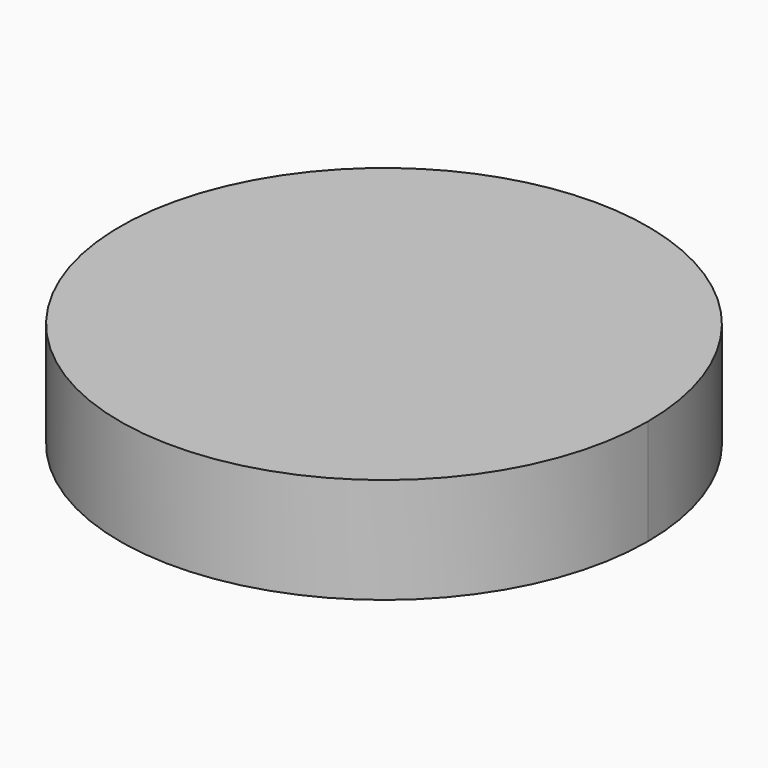
from build123d import *

# Parameters (mm, degrees)
F1_DEPTH = 10


with BuildPart() as f1:
    # F0 (on Top) → F1 (new body)
    with BuildSketch(Plane.XY):
        with BuildLine():
            ThreePointArc((0.202041, 23), (0.151403, 24.00509), (0, 25))
            ThreePointArc((0, 25), (-5, 24.494897), (-9.797959, 23))
            ThreePointArc((-9.797959, 23), (-7.485281, 18.36897), (-3.166929, 15.514719))
            ThreePointArc((-3.166929, 15.514719), (-0.679014, 18.895752), (0.202041, 23))
        make_face()
        with BuildLine():
            ThreePointArc((-18.028245, 17.32), (-9.335253, -23.191659), (25, 0))
            ThreePointArc((25, 0), (20.856042, 13.784974), (9.797959, 23))
            ThreePointArc((9.797959, 23), (5, 16.339746), (-3.166929, 15.514719))
            ThreePointArc((-3.166929, 15.514719), (-11.003846, 13.072974), (-18.028245, 17.32))
        make_face()
        with BuildLine():
            ThreePointArc((-9.797959, 23), (-14.2, 20.575714), (-18.028245, 17.32))
            ThreePointArc((-18.028245, 17.32), (-11.003846, 13.072974), (-3.166929, 15.514719))
            ThreePointArc((-3.166929, 15.514719), (-7.485281, 18.36897), (-9.797959, 23))
        make_face()
        with BuildLine():
            ThreePointArc((-3.166929, 15.514719), (5, 16.339746), (9.797959, 23))
            ThreePointArc((9.797959, 23), (5, 24.494897), (0, 25))
            ThreePointArc((0, 25), (0.151403, 24.00509), (0.202041, 23))
            ThreePointArc((0.202041, 23), (-0.679014, 18.895752), (-3.166929, 15.514719))
        make_face()
    extrude(amount=F1_DEPTH)


solid = f1.part
